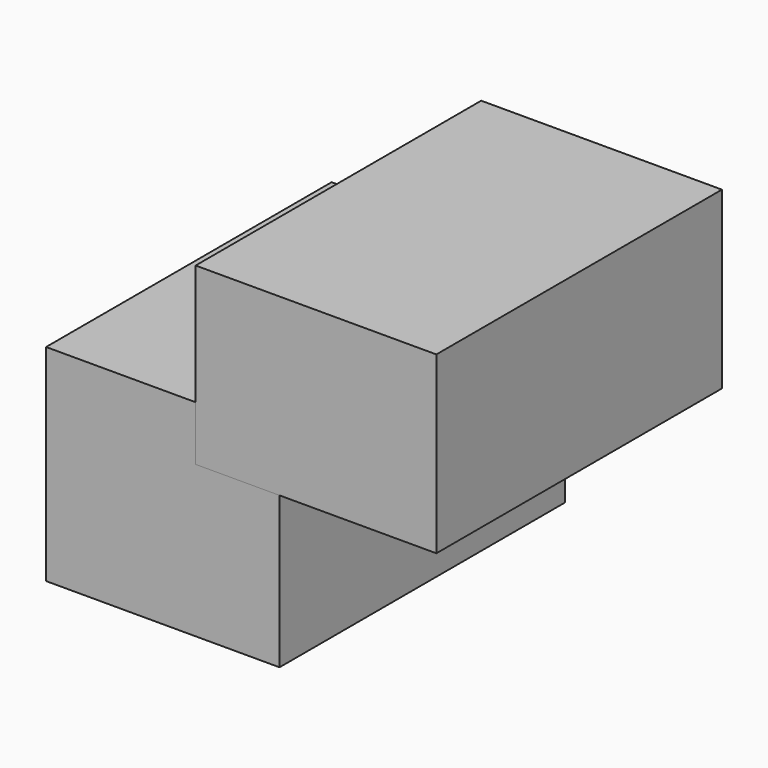
from build123d import *

# Parameters (mm, degrees)
F0_W     = 5.969814
F0_H     = 3.893358
F1_DEPTH = 25.4
F2_DEPTH = 25.4


with BuildPart() as f1:
    # F0 (on Front) → F1 (new body)
    with BuildSketch(Plane.XZ):
        Polygon((0, 14.664982), (0, 0), (16.611656, 0), (16.611656, 10.771624), (10.641842, 10.771624), (10.641842, 14.664982), align=None)
        with Locations((13.626749, 12.718303)):
            Rectangle(F0_W, F0_H)
    extrude(amount=F1_DEPTH)


with BuildPart() as f2:
    # F0 (on Front) → F2 (new body)
    with BuildSketch(Plane.XZ):
        with Locations((13.626749, 12.718303)):
            Rectangle(F0_W, F0_H)
        Polygon((16.611656, 14.664982), (16.611656, 10.771624), (27.772613, 10.771624), (27.772613, 23.230368), (10.641842, 23.230368), (10.641842, 14.664982), align=None)
    extrude(amount=F2_DEPTH)


solid = Compound([f1.part, f2.part])
